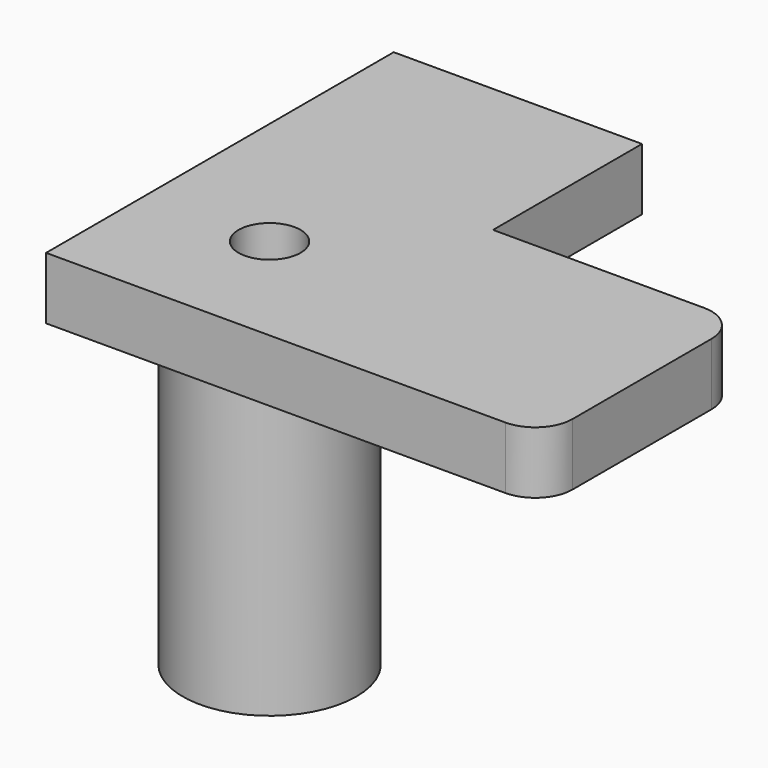
from build123d import *

# Parameters (mm, degrees)
SKETCH_R     = 2.5
PAD_DEPTH    = 5
FILLET_R     = 3
SKETCH001_R  = 7
PAD001_DEPTH = 25
SKETCH002_R  = 2.5
POCKET_DEPTH = 30.001


with BuildPart() as part:
    # Sketch → Pad (new body)
    with BuildSketch(Plane.XY):
        Polygon((-10, -10), (30, -10), (30, 10), (10, 10), (10, 25), (-10, 25), align=None)
        Circle(SKETCH_R, mode=Mode.SUBTRACT)
    extrude(amount=PAD_DEPTH)

    # Fillet
    fillet_edges = [part.edges().sort_by_distance(p)[0] for p in [
        (30, 10, 2.5),
        (30, -10, 2.5),
    ]]
    fillet(fillet_edges, radius=FILLET_R)

    # Sketch001 → Pad001 (new body)
    with BuildSketch(Plane(origin=(0, 0, 0), x_dir=(1, 0, 0), z_dir=(0, 0, -1))):
        Circle(SKETCH001_R)
    extrude(amount=PAD001_DEPTH)

    # Sketch002 → Pocket (cut, through all)
    with BuildSketch(Plane(origin=(0, 0, -25), x_dir=(1, 0, 0), z_dir=(0, 0, -1))):
        Circle(SKETCH002_R)
    extrude(amount=-POCKET_DEPTH, mode=Mode.SUBTRACT)


solid = part.part
